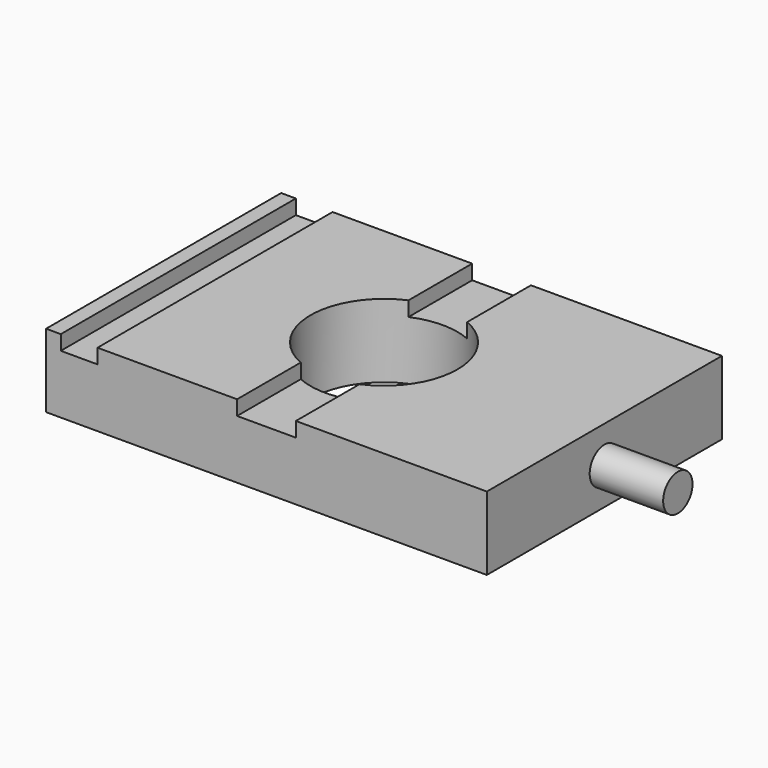
from build123d import *

# Parameters (mm, degrees)
F0_W     = 76.2
F0_H     = 50.8
F0_R     = 12.7
F1_DEPTH = 12.7
F2_W     = 6.35
F2_H     = 50.8
F3_DEPTH = 2.54
F4_R     = 3.175
F5_DEPTH = 12.7


with BuildPart() as f1:
    # F0 (on Top) → F1 (new body)
    with BuildSketch(Plane.XY):
        Rectangle(F0_W, F0_H)
        Circle(F0_R, mode=Mode.SUBTRACT)
    extrude(amount=F1_DEPTH)

    # F2 (on face) → F3 (cut)
    with BuildSketch(Plane.XY.offset(12.7)):
        with Locations((-32.385, 0)):
            Rectangle(F2_W, F2_H)
        with BuildLine():
            Line((5.08, 25.4), (-5.08, 25.4))
            Line((-5.08, 25.4), (-5.08, 11.639742))
            ThreePointArc((-5.08, 11.639742), (0, 12.7), (5.08, 11.639742))
            Line((5.08, 11.639742), (5.08, 25.4))
        make_face()
        with BuildLine():
            Line((-5.08, -11.639742), (-5.08, -25.4))
            Line((-5.08, -25.4), (5.08, -25.4))
            Line((5.08, -25.4), (5.08, -11.639742))
            ThreePointArc((5.08, -11.639742), (0, -12.7), (-5.08, -11.639742))
        make_face()
    extrude(amount=-F3_DEPTH, mode=Mode.SUBTRACT)

    # F4 (on face) → F5 (join)
    with BuildSketch(Plane.YZ.offset(38.1)):
        with Locations((0, 6.35)):
            Circle(F4_R)
    extrude(amount=F5_DEPTH)


solid = f1.part
